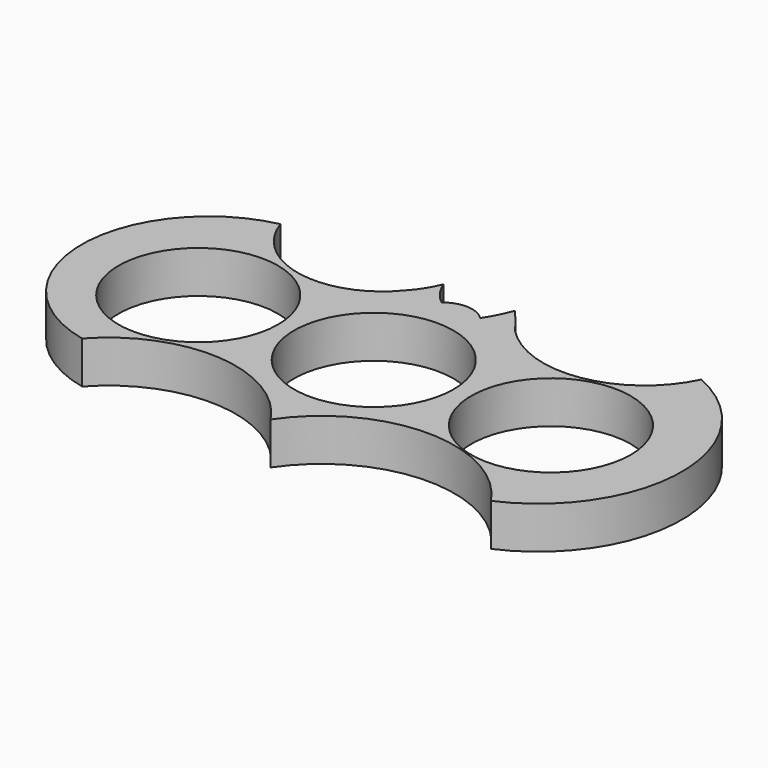
from build123d import *

# Parameters (mm, degrees)
F0_R     = 13.2
F1_DEPTH = 7


with BuildPart() as f1:
    # F0 (on Top) → F1 (new body)
    with BuildSketch(Plane.XY):
        with BuildLine():
            ThreePointArc((5.644667, 22.165649), (4.665852, 19.88717), (3.409515, 17.749143))
            ThreePointArc((3.409515, 17.749143), (0.156216, 19.184844), (-3.20524, 18.024758))
            ThreePointArc((-3.20524, 18.024758), (-4.974394, 19.897283), (-6.195367, 22.165649))
            ThreePointArc((-6.195367, 22.165649), (-7.382922, 19.823517), (-8.993153, 17.749143))
            ThreePointArc((-8.993153, 17.749143), (-22.389875, 12.804904), (-33.179633, 22.158981))
            ThreePointArc((-33.179633, 22.158981), (-49.675616, 1.648765), (-33.179633, -18.861452))
            ThreePointArc((-33.179633, -18.861452), (-15.982306, -11.966628), (0, -21.339599))
            ThreePointArc((0, -21.339599), (18.241916, -11.616609), (36.483832, -21.339599))
            ThreePointArc((36.483832, -21.339599), (50.653593, 0.409691), (36.483832, 22.158981))
            ThreePointArc((36.483832, 22.158981), (23.994879, 12.812003), (9.197427, 17.749143))
            ThreePointArc((9.197427, 17.749143), (7.450629, 19.981192), (5.644667, 22.165649))
        make_face()
        with Locations((-29.049389, 0)):
            Circle(F0_R, mode=Mode.SUBTRACT)
        Circle(F0_R, mode=Mode.SUBTRACT)
        with Locations((29.32474, 0)):
            Circle(F0_R, mode=Mode.SUBTRACT)
    extrude(amount=F1_DEPTH)


solid = f1.part
